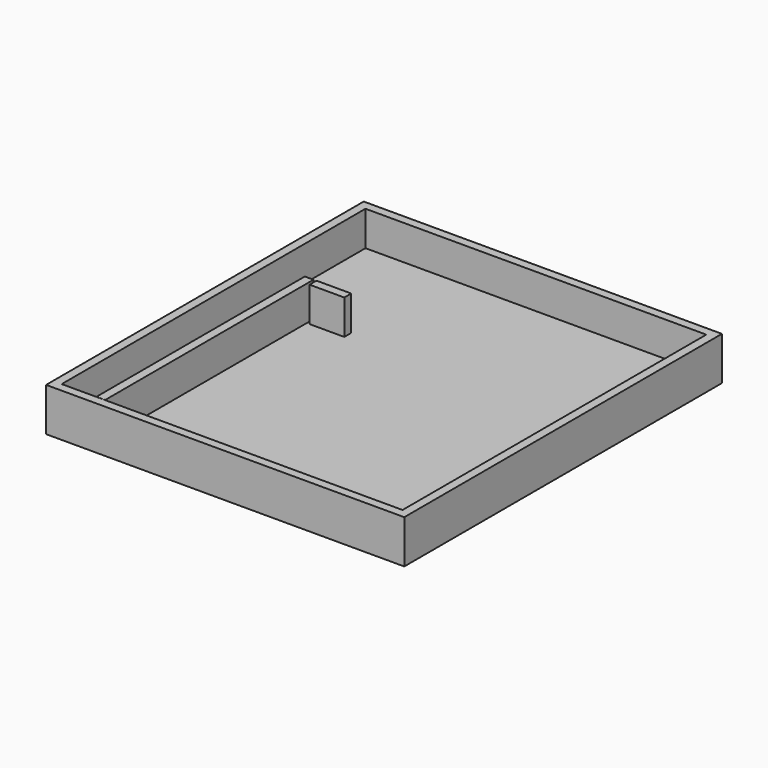
from build123d import *

# Parameters (mm, degrees)
F0_W     = 52.411996
F0_H     = 58.101058
F1_DEPTH = 6.35
F2_T     = -1.27
F3_W     = 1.273277
F3_H     = 38.1
F4_DEPTH = 6.35
F5_W     = 5.08
F5_H     = 1.27
F6_DEPTH = 6.35


with BuildPart() as f1:
    # F0 (on Top) → F1 (new body)
    with BuildSketch(Plane.XY):
        with Locations((26.205998, 29.050529)):
            Rectangle(F0_W, F0_H)
    extrude(amount=F1_DEPTH)

    # F2
    f2_openings = [f1.faces().sort_by_distance(p)[0] for p in [
        (26.205998, 29.050529, 6.35),
    ]]
    offset(amount=F2_T, openings=f2_openings)

    # F3 (on Top) → F4 (join)
    with BuildSketch(Plane.XY):
        with Locations((6.968005, 20.351489)):
            Rectangle(F3_W, F3_H)
    extrude(amount=F4_DEPTH)

    # F5 (on Top) → F6 (join)
    with BuildSketch(Plane.XY):
        with Locations((10.558338, 38.800815)):
            Rectangle(F5_W, F5_H)
    extrude(amount=F6_DEPTH)


solid = f1.part
